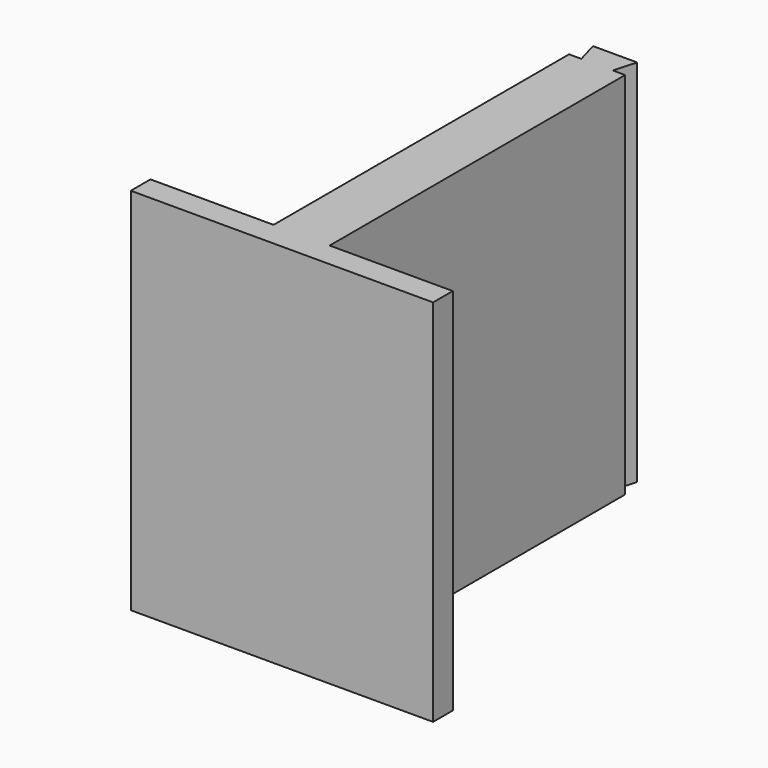
from build123d import *

# Parameters (mm, degrees)
F1_DEPTH = 38.1


with BuildPart() as f1:
    # F0 (on Top) → F1 (new body, symmetric)
    with BuildSketch(Plane.XY):
        Polygon((7.81685, 0), (-1.32715, 0), (0, -4.63993), (-2.54, -4.63993), (-2.54, -80.83993), (-27.94, -80.83993), (-27.94, -85.91993), (34.4297, -85.91993), (34.4297, -80.83993), (9.0297, -80.83993), (9.0297, -4.63993), (6.4897, -4.63993), align=None)
    extrude(amount=F1_DEPTH, both=True)


with BuildPart() as f1_1:
    # F2: moved
    add(f1.part.moved(Location((-4.064, 44.958, 0))))


solid = f1_1.part
